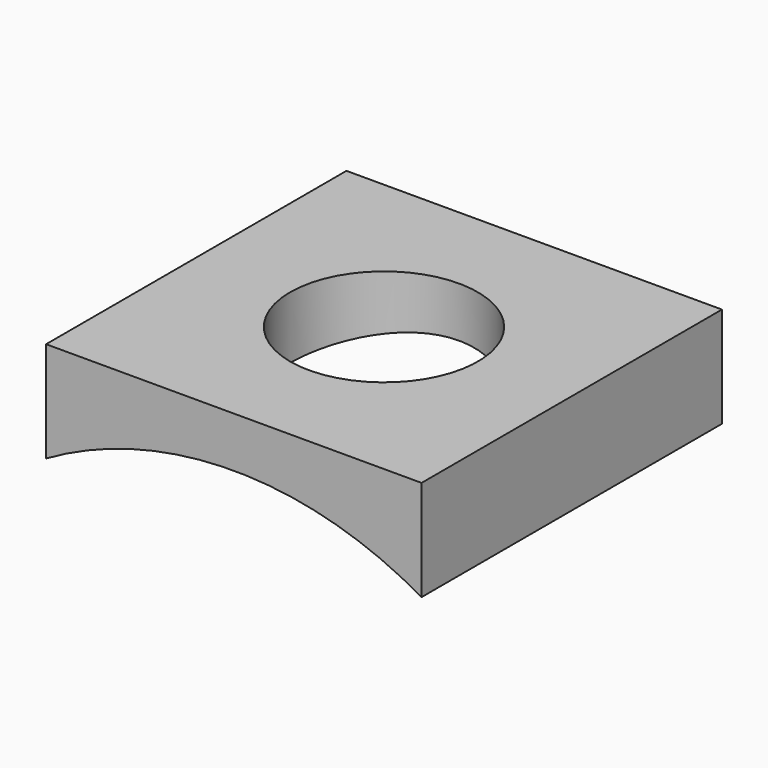
from build123d import *

# Parameters (mm, degrees)
F1_DEPTH = 100
F3_D     = 50


with BuildPart() as f1:
    # F0 (on Front) → F1 (new body)
    with BuildSketch(Plane.XZ):
        with BuildLine():
            ThreePointArc((-50, -13.39746), (0, 0), (50, -13.39746))
            Line((50, -13.39746), (50, 13.39746))
            Line((50, 13.39746), (-50, 13.39746))
            Line((-50, 13.39746), (-50, -13.39746))
        make_face()
    extrude(amount=F1_DEPTH)

    # F3 (through all)
    with Locations(Plane.XY.offset(13.39746)):
        with Locations((0, -50)):
            Hole(F3_D / 2)


solid = f1.part
